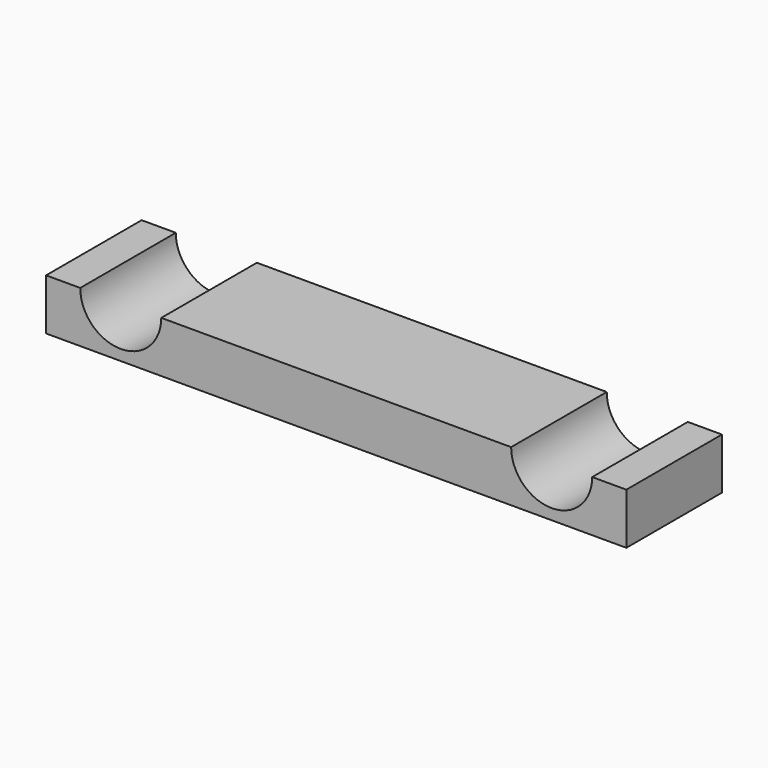
from build123d import *

# Parameters (mm, degrees)
F1_DEPTH = 88.9


with BuildPart() as f1:
    # F0 (on Front) → F1 (new body)
    with BuildSketch(Plane.XZ):
        with BuildLine():
            Line((-156.344698, 44.003755), (-181.744698, 44.003755))
            Line((-181.744698, 44.003755), (-181.744698, 5.903755))
            Line((-181.744698, 5.903755), (250.055302, 5.903755))
            Line((250.055302, 5.903755), (250.055302, 44.003755))
            Line((250.055302, 44.003755), (224.655302, 44.003755))
            ThreePointArc((224.655302, 44.003755), (194.492802, 13.841255), (164.330302, 44.003755))
            Line((164.330302, 44.003755), (-96.019698, 44.003755))
            ThreePointArc((-96.019698, 44.003755), (-126.182198, 13.841255), (-156.344698, 44.003755))
        make_face()
    extrude(amount=F1_DEPTH)


solid = f1.part
